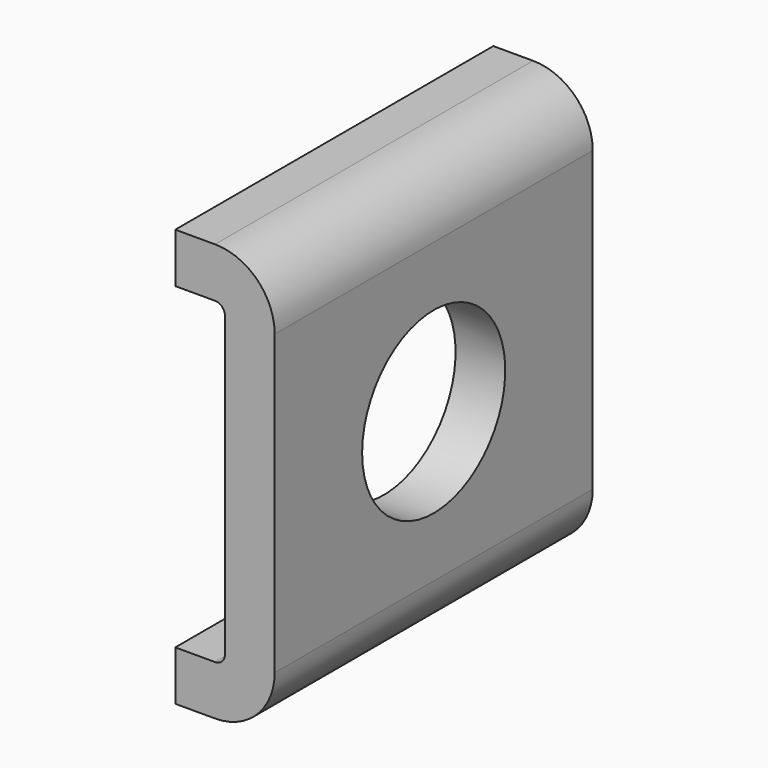
from build123d import *

# Parameters (mm, degrees)
F1_DEPTH      = 10
F1_DEPTH_BACK = 10
F4_D          = 9


with BuildPart() as f1:
    # F0 (on Front) → F1 (new body, two sides)
    with BuildSketch(Plane.XZ) as f1_sk:
        with BuildLine():
            Line((0, 0), (2.5, 0))
            Line((2.5, 0), (2.5, 7.5))
            ThreePointArc((2.5, 7.5), (1.62132, 9.62132), (-0.5, 10.5))
            Line((-0.5, 10.5), (-2.5, 10.5))
            Line((-2.5, 10.5), (-2.5, 8))
            Line((-2.5, 8), (-0.5, 8))
            ThreePointArc((-0.5, 8), (-0.146447, 7.853553), (0, 7.5))
            Line((0, 7.5), (0, 0))
        make_face()
    extrude(amount=F1_DEPTH)
    extrude(f1_sk.sketch, amount=-F1_DEPTH_BACK)

    # F2: F1 across face


with BuildPart() as f1_1:
    add(f1.part)
    add(f1.part.mirror(Plane(origin=(1.25, 0, 0), x_dir=(1, 0, 0), z_dir=(0, 0, -1))))

    # F4 (through all)
    with Locations(Plane.YZ.offset(2.5)):
        with Locations((0, 0)):
            Hole(F4_D / 2)


solid = f1_1.part
